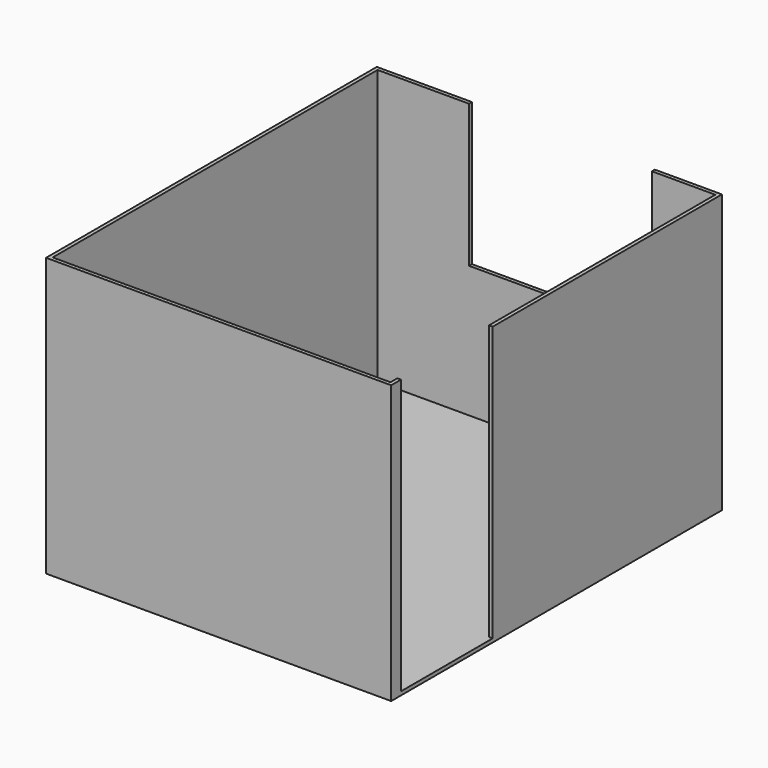
from build123d import *

# Parameters (mm, degrees)
F1_DEPTH = 2250
F2_W     = 2830
F2_H     = 3390
F3_DEPTH = 30
F4_W     = 1500
F4_H     = 1170
F5_DEPTH = 30


with BuildPart() as f1:
    # F0 (on Top) → F1 (new body)
    with BuildSketch(Plane.XY):
        Polygon((0, 70), (0, 0), (-2770, 0), (-2770, 3330), (0, 3330), (0, 1010), (30, 1010), (30, 3360), (-2800, 3360), (-2800, -30), (30, -30), (30, 70), align=None)
    extrude(amount=F1_DEPTH)

    # F2 (on Top) → F3 (join)
    with BuildSketch(Plane.XY):
        with Locations((-1385, 1665)):
            Rectangle(F2_W, F2_H)
    extrude(amount=-F3_DEPTH)

    # F4 (on face) → F5 (cut, through all)
    with BuildSketch(Plane.XZ.offset(-3330)):
        with Locations((-1270, 1665)):
            Rectangle(F4_W, F4_H)
    extrude(amount=-F5_DEPTH, mode=Mode.SUBTRACT)


solid = f1.part
